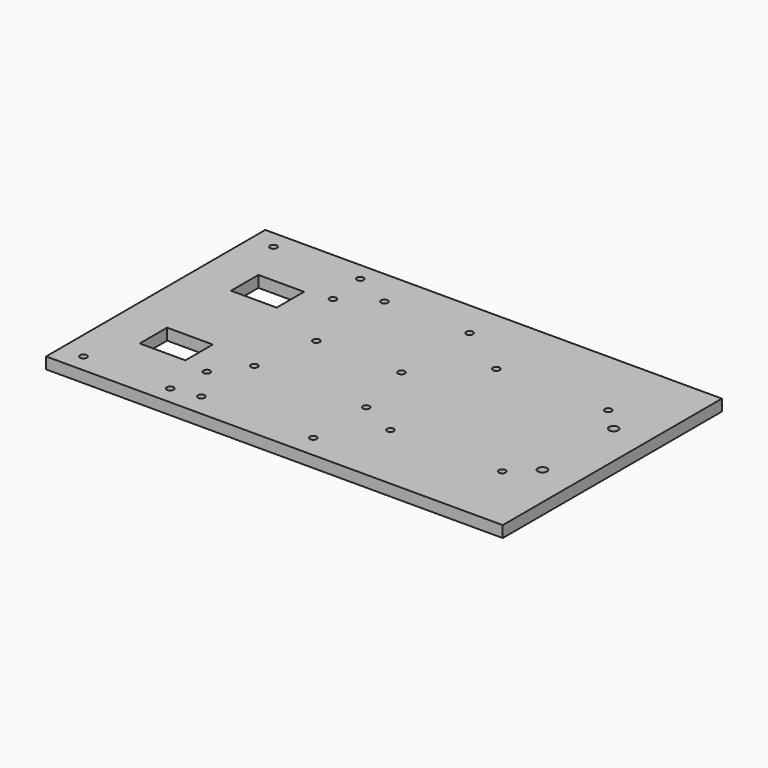
from build123d import *

# Parameters (mm, degrees)
F0_W      = 200
F0_H      = 120
F1_DEPTH  = 5
F2_R      = 1.5
F2_W      = 20
F2_H      = 15
F3_DEPTH  = 25
F4_R      = 1.5
F5_DEPTH  = 5.001
F6_R      = 2
F7_DEPTH  = 5.001
F8_R      = 1.5
F9_DEPTH  = 5.001
F10_R     = 1.5
F11_DEPTH = 5.001
F12_R     = 1.5
F13_DEPTH = 5.001


with BuildPart() as f1:
    # F0 (on Top) → F1 (new body)
    with BuildSketch(Plane.XY):
        Rectangle(F0_W, F0_H)
    extrude(amount=F1_DEPTH)

    # F2 (on face) → F3 (cut)
    with BuildSketch(Plane.XY.offset(5)):
        with Locations((-90, 52)):
            Circle(F2_R)
        with Locations((-52, 52)):
            Circle(F2_R)
        with Locations((-90, -52)):
            Circle(F2_R)
        with Locations((-52, -52)):
            Circle(F2_R)
        with Locations((-71, 25)):
            Rectangle(F2_W, F2_H)
        with Locations((-71, -25)):
            Rectangle(F2_W, F2_H)
    extrude(amount=-F3_DEPTH, mode=Mode.SUBTRACT)

    # F4 (on face) → F5 (cut, through all)
    with BuildSketch(Plane.XY.offset(5)):
        with Locations((26, -29)):
            Circle(F4_R)
        with Locations((26, 29)):
            Circle(F4_R)
        with Locations((75, -29)):
            Circle(F4_R)
        with Locations((75, 29)):
            Circle(F4_R)
    extrude(amount=-F5_DEPTH, mode=Mode.SUBTRACT)

    # F6 (on face) → F7 (cut, through all)
    with BuildSketch(Plane(origin=(0, 0, 0), x_dir=(1, 0, 0), z_dir=(0, 0, -1))):
        with Locations((85, 19.5)):
            Circle(F6_R)
        with Locations((85, -19.5)):
            Circle(F6_R)
    extrude(amount=-F7_DEPTH, mode=Mode.SUBTRACT)

    # F8 (on face) → F9 (cut, through all)
    with BuildSketch(Plane.XY.offset(5)):
        with Locations((-35, 44)):
            Circle(F8_R)
        with Locations((-35, 6.7)):
            Circle(F8_R)
        with Locations((2.3, 44)):
            Circle(F8_R)
        with Locations((2.3, 6.7)):
            Circle(F8_R)
    extrude(amount=-F9_DEPTH, mode=Mode.SUBTRACT)

    # F10 (on face) → F11 (cut, through all)
    with BuildSketch(Plane.XY.offset(5)):
        with Locations((-40, -21)):
            Circle(F10_R)
        with Locations((-40, -50)):
            Circle(F10_R)
        with Locations((9, -21)):
            Circle(F10_R)
        with Locations((9, -50)):
            Circle(F10_R)
    extrude(amount=-F11_DEPTH, mode=Mode.SUBTRACT)

    # F12 (on face) → F13 (cut, through all)
    with BuildSketch(Plane.XY.offset(5)):
        with Locations((-50, 34.5)):
            Circle(F12_R)
        with Locations((-50, -34.5)):
            Circle(F12_R)
    extrude(amount=-F13_DEPTH, mode=Mode.SUBTRACT)


solid = f1.part
